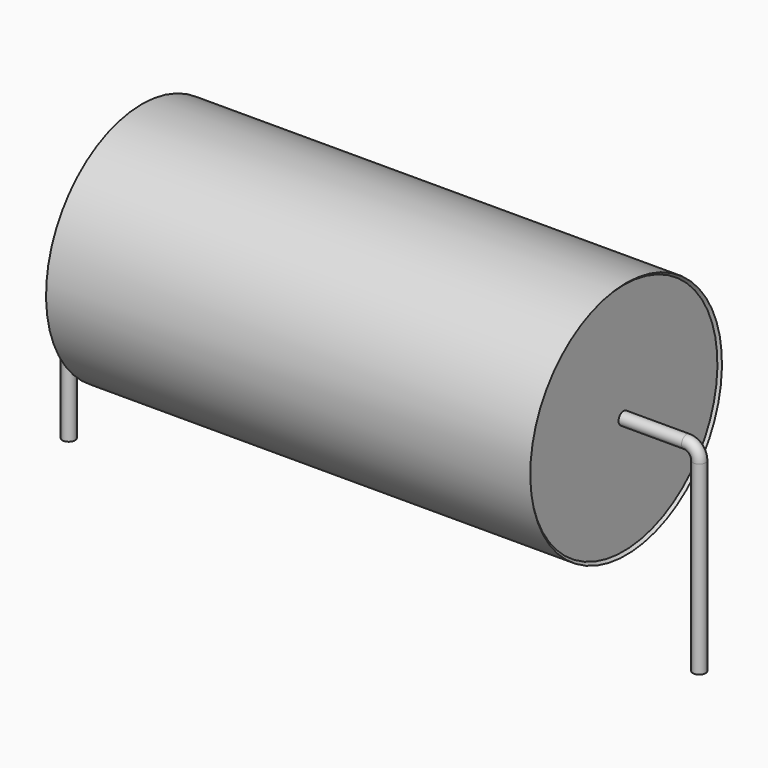
from build123d import *

# Parameters (mm, degrees)
SKETCH_R = 0.25


with BuildPart() as sweep_body:
    # Sweep: sweep along a path in Sketch001
    with BuildLine(Plane.XZ) as sweep_path:
        Line((0, -3), (0, 4.35))
        ThreePointArc((0, 4.35), (0.146449, 4.703556), (0.500006, 4.85))
        Line((0.500006, 4.85), (24.5, 4.85))
        ThreePointArc((24.5, 4.85), (24.853553, 4.703553), (25, 4.35))
        Line((25, 4.35), (25, -3))
    # Sketch → Sweep (sweep)
    with BuildSketch(Plane.XY.offset(-2)):
        Circle(SKETCH_R)
    sweep(path=sweep_path.line)


with BuildPart() as revolution:
    # Sketch002 → Revolution (revolve)
    with BuildSketch(Plane.XZ):
        Polygon((2.9, 9.6), (22.1, 9.6), (22, 9.5), (22, 4.85), (3, 4.85), (3, 9.5), align=None)
    revolve(axis=Axis((7.611803, 0, 4.85), (1, 0, 0)))


solid = Compound([sweep_body.part, revolution.part])
